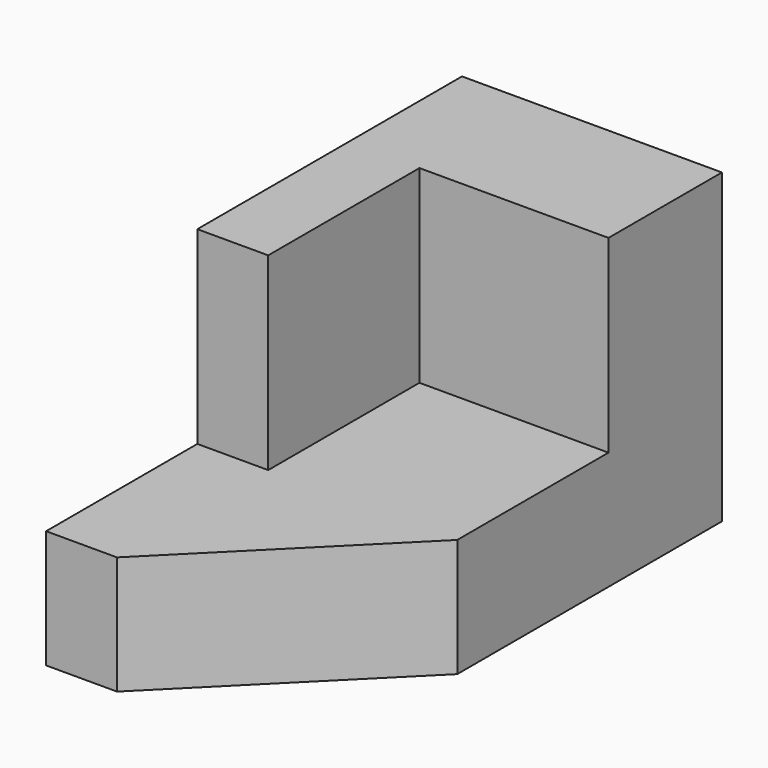
from build123d import *

# Parameters (mm, degrees)
F1_DEPTH = 635
F2_W     = 1397
F2_H     = 1778
F3_DEPTH = 1016
F4_W     = 1016
F4_H     = 1016
F5_DEPTH = 1016


with BuildPart() as f1:
    # F0 (on Top) → F1 (new body)
    with BuildSketch(Plane.XY):
        Polygon((434.853258, 2746.190321), (-962.146742, 2746.190321), (-962.146742, -47.809679), (-581.146742, -47.809679), (434.853258, 968.190321), align=None)
    extrude(amount=F1_DEPTH)

    # F2 (on face) → F3 (join)
    with BuildSketch(Plane.XY.offset(635)):
        with Locations((-263.646742, 1857.190321)):
            Rectangle(F2_W, F2_H)
    extrude(amount=F3_DEPTH)

    # F4 (on face) → F5 (cut)
    with BuildSketch(Plane.XY.offset(1651)):
        with Locations((-73.146742, 1476.190321)):
            Rectangle(F4_W, F4_H)
    extrude(amount=-F5_DEPTH, mode=Mode.SUBTRACT)


solid = f1.part
